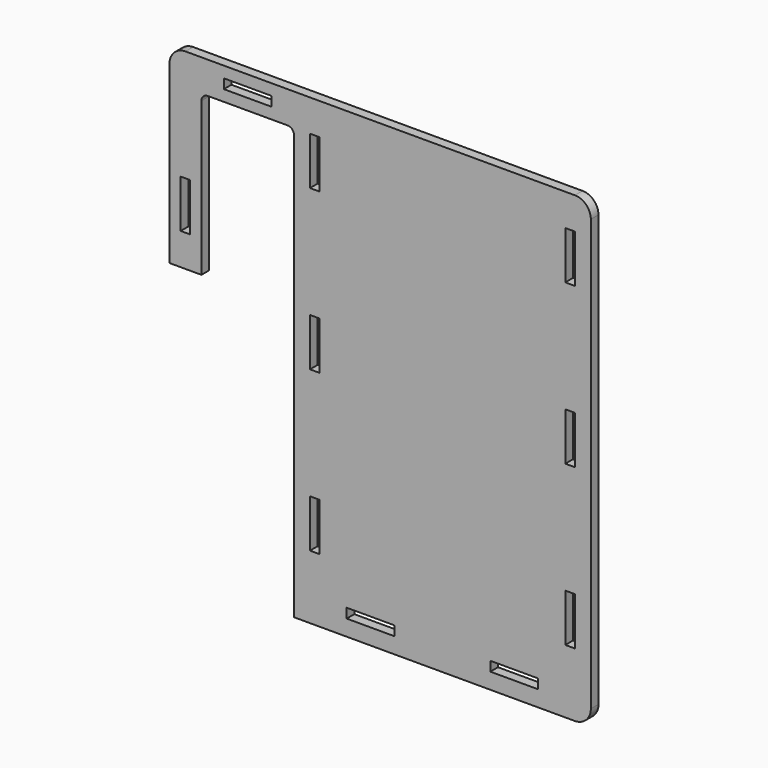
from build123d import *

# Parameters (mm, degrees)
F1_W     = 15
F1_H     = 3
F1_W_2   = 3
F1_H_2   = 15
F2_DEPTH = 3


with BuildPart() as f2:
    # F1 (on Front) → F2 (new body)
    with BuildSketch(Plane.XZ):
        with BuildLine():
            Line((0, 55), (0, 0))
            Line((0, 0), (10, 0))
            Line((10, 0), (10, 48))
            ThreePointArc((10, 48), (10.5857864376, 49.4142135624), (12, 50))
            Line((12, 50), (37, 50))
            ThreePointArc((37, 50), (38.4142135624, 49.4142135624), (39, 48))
            Line((39, 48), (39, -85))
            Line((39, -85), (127, -85))
            ThreePointArc((127, -85), (130.5355339059, -83.5355339059), (132, -80))
            Line((132, -80), (132, 55))
            ThreePointArc((132, 55), (130.5355339059, 58.5355339059), (127, 60))
            Line((127, 60), (5, 60))
            ThreePointArc((5, 60), (1.4644660941, 58.5355339059), (0, 55))
        make_face()
        with Locations((63, -78.5)):
            Rectangle(F1_W, F1_H, mode=Mode.SUBTRACT)
        with Locations((45.5, -57.5)):
            Rectangle(F1_W_2, F1_H_2, mode=Mode.SUBTRACT)
        with Locations((108, -78.5)):
            Rectangle(F1_W, F1_H, mode=Mode.SUBTRACT)
        with Locations((125.5, -57.5)):
            Rectangle(F1_W_2, F1_H_2, mode=Mode.SUBTRACT)
        with Locations((5, 17.5)):
            Rectangle(F1_W_2, F1_H_2, mode=Mode.SUBTRACT)
        with Locations((45.5, -7.5)):
            Rectangle(F1_W_2, F1_H_2, mode=Mode.SUBTRACT)
        with Locations((24.5, 55)):
            Rectangle(F1_W, F1_H, mode=Mode.SUBTRACT)
        with Locations((45.5, 42.5)):
            Rectangle(F1_W_2, F1_H_2, mode=Mode.SUBTRACT)
        with Locations((125.5, -7.5)):
            Rectangle(F1_W_2, F1_H_2, mode=Mode.SUBTRACT)
        with Locations((125.5, 42.5)):
            Rectangle(F1_W_2, F1_H_2, mode=Mode.SUBTRACT)
    extrude(amount=F2_DEPTH)


solid = f2.part
